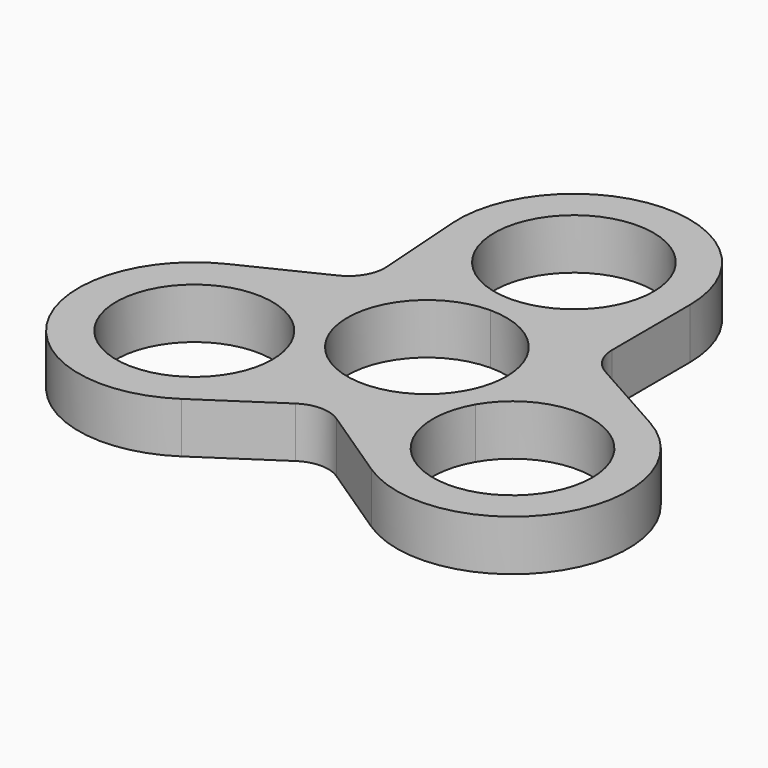
from build123d import *

# Parameters (mm, degrees)
F1_DEPTH = 7
F2_R     = 5.08


with BuildPart() as f1:
    # F0 (on Top) → F1 (new body)
    with BuildSketch(Plane.XY):
        with BuildLine():
            Line((-14.855128, 8.576612), (-29.004115, 1.684053))
            ThreePointArc((-29.004115, 1.684053), (-35.87974, -20.654294), (-13.131215, -26.019049))
            Line((-13.131215, -26.019049), (0, -17.27825))
            Line((0, -17.27825), (13.131215, -26.019049))
            ThreePointArc((13.131215, -26.019049), (35.640928, -21.0573), (29.833927, 1.249311))
            Line((29.833927, 1.249311), (16.048566, 8.994085))
            Line((16.048566, 8.994085), (15.99993, 25.447296))
            ThreePointArc((15.99993, 25.447296), (-0.585843, 41.389271), (-15.96049, 24.276274))
            Line((-15.96049, 24.276274), (-14.855128, 8.576612))
        make_face()
        with BuildLine():
            ThreePointArc((-11.202065, -12.7), (-32.424195, -15.493946), (-12.648318, -7.30251))
            ThreePointArc((-12.648318, -7.30251), (-11.569895, -9.906054), (-11.202065, -12.7))
        make_face(mode=Mode.SUBTRACT)
        with BuildLine():
            ThreePointArc((32.997045, -12.7), (19.150036, -23.325184), (12.470766, -7.2))
            ThreePointArc((12.470766, -7.2), (24.844055, -2.074816), (32.997045, -12.7))
        make_face(mode=Mode.SUBTRACT)
        with BuildLine():
            ThreePointArc((-9.526279, -5.5), (-9.526279, 5.5), (0, 11))
            ThreePointArc((0, 11), (7.778175, 7.778175), (11, 0))
            ThreePointArc((11, 0), (10.625184, -2.847009), (9.526279, -5.5))
            ThreePointArc((9.526279, -5.5), (0, -11), (-9.526279, -5.5))
        make_face(mode=Mode.SUBTRACT)
        with BuildLine():
            ThreePointArc((0, 14.4), (-7.778175, 33.178175), (11, 25.4))
            ThreePointArc((11, 25.4), (7.778175, 17.621825), (0, 14.4))
        make_face(mode=Mode.SUBTRACT)
    extrude(amount=F1_DEPTH)

    # F2
    f2_edges = [f1.edges().sort_by_distance(p)[0] for p in [
        (-14.855128, 8.576612, 3.5),
        (16.048566, 8.994085, 3.5),
        (0, -17.27825, 3.5),
    ]]
    fillet(f2_edges, radius=F2_R)


solid = f1.part
